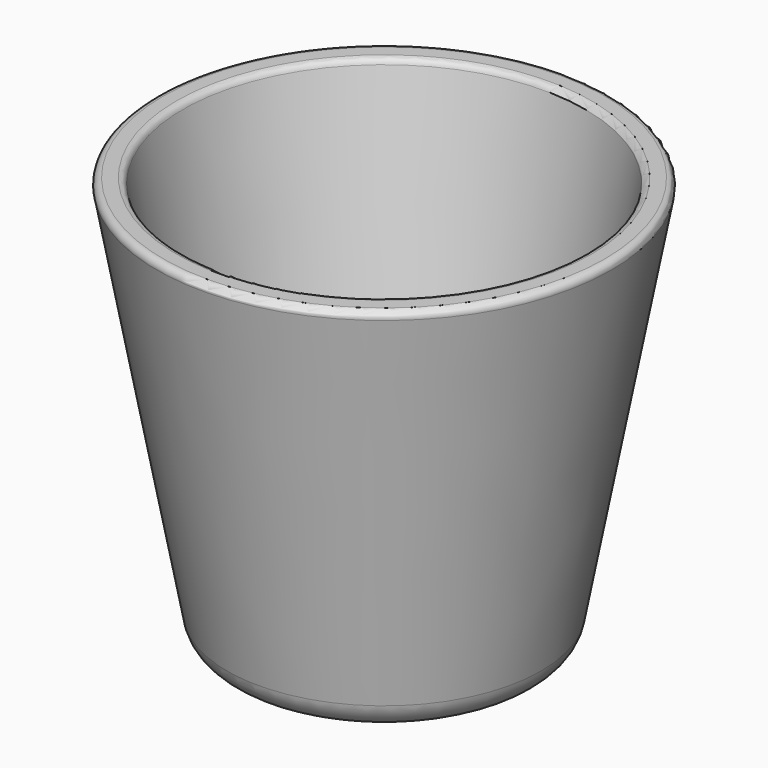
from build123d import *


with BuildPart() as f1:
    # F0 (on Front) → F1 (revolve)
    with BuildSketch(Plane.XZ):
        with BuildLine():
            Line((0, -14.191265), (0, -21.08311))
            Line((0, -21.08311), (19.063216, -21.08311))
            ThreePointArc((19.063216, -21.08311), (22.258072, -19.929264), (23.978379, -17.00027))
            Line((23.978379, -17.00027), (34.687965, 40.393608))
            ThreePointArc((34.687965, 40.393608), (34.474164, 41.216011), (33.704933, 41.57704))
            Line((33.704933, 41.57704), (31.704933, 41.57704))
            ThreePointArc((31.704933, 41.57704), (31.065962, 41.346271), (30.721901, 40.760472))
            Line((30.721901, 40.760472), (21.229863, -10.108425))
            ThreePointArc((21.229863, -10.108425), (19.509556, -13.037419), (16.314701, -14.191265))
            Line((16.314701, -14.191265), (0, -14.191265))
        make_face()
    revolve(axis=Axis((0, 0, -17.637188), (0, 0, -1)))


solid = f1.part
